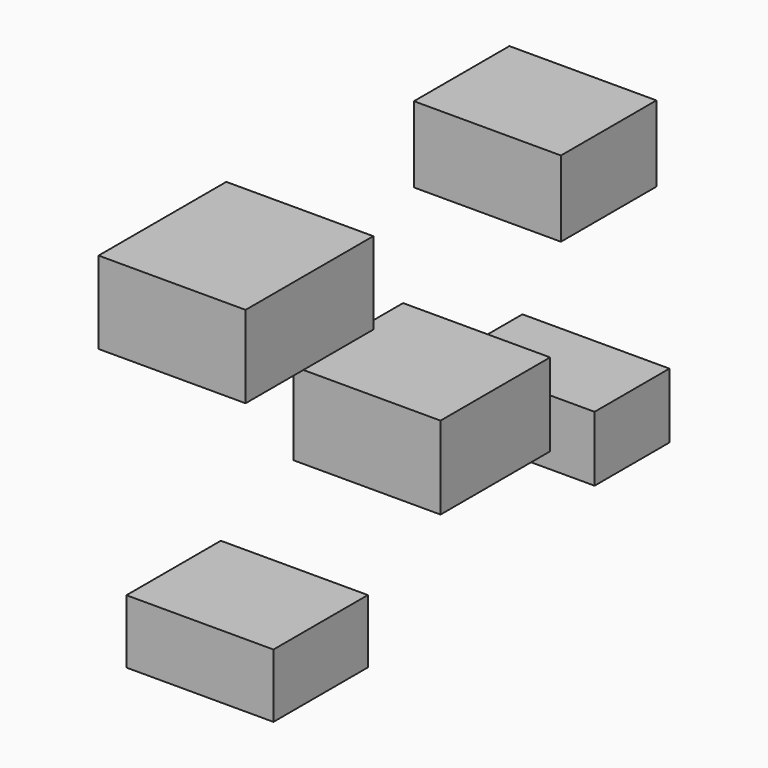
from build123d import *

# Parameters (mm, degrees)
F0_W     = 27.582229
F0_H     = 14.210176
F1_DEPTH = 25.4
F2_W     = 20.617509
F2_H     = 13.120234
F6_DEPTH = 25.4
F3_W     = 16.166002
F3_H     = 11.245915
F7_DEPTH = 25.4
F5_W     = 23.663281
F5_H     = 14.291683
F8_DEPTH = 25.4
F4_W     = 20.383222
F4_H     = 11.011626
F9_DEPTH = 25.4


with BuildPart() as f1:
    # F0 (on Right) → F1 (new body)
    with BuildSketch(Plane.YZ):
        with Locations((-28.30807, 32.593055)):
            Rectangle(F0_W, F0_H)
    extrude(amount=F1_DEPTH)


with BuildPart() as f6:
    # F2 (on Right) → F6 (new body)
    with BuildSketch(Plane.YZ):
        with Locations((36.314934, 28.934803)):
            Rectangle(F2_W, F2_H)
    extrude(amount=F6_DEPTH)


with BuildPart() as f7:
    # F3 (on Right) → F7 (new body)
    with BuildSketch(Plane.YZ):
        with Locations((41.352168, -12.065929)):
            Rectangle(F3_W, F3_H)
    extrude(amount=F7_DEPTH)


with BuildPart() as f8:
    # F5 (on Right) → F8 (new body)
    with BuildSketch(Plane.YZ):
        with Locations((11.83164, -1.405739)):
            Rectangle(F5_W, F5_H)
    extrude(amount=F8_DEPTH)


with BuildPart() as f9:
    # F4 (on Right) → F9 (new body)
    with BuildSketch(Plane.YZ):
        with Locations((-25.889033, -19.914642)):
            Rectangle(F4_W, F4_H)
    extrude(amount=F9_DEPTH)


solid = Compound([f1.part, f6.part, f7.part, f8.part, f9.part])
